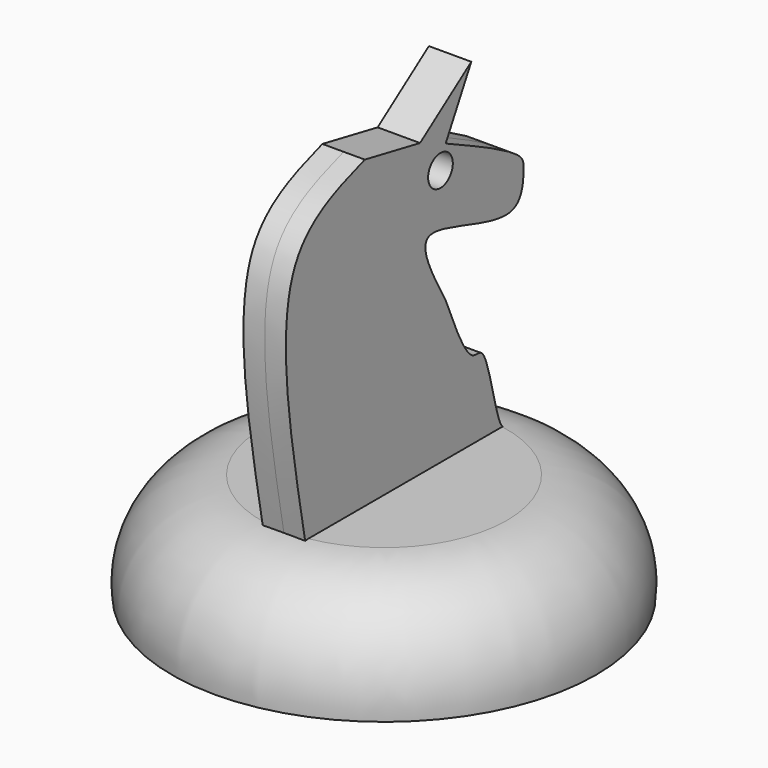
from build123d import *

# Parameters (mm, degrees)
F3_DEPTH = 2.5
F4_R     = 1.8196916791
F5_DEPTH = 12.5


with BuildPart() as f1:
    # F0 (on Front) → F1 (revolve)
    with BuildSketch(Plane.XZ):
        with BuildLine():
            Line((0, 12.6119172201), (0, 0))
            Line((0, 0), (25, 0))
            ThreePointArc((25, 0), (22.4952746146, 8.5923260716), (14.4987376407, 12.6119172201))
            Line((14.4987376407, 12.6119172201), (0, 12.6119172201))
        make_face()
    revolve(axis=Axis((0, 0, 6.4052655362), (0, 0, 1)))

    # F2 (on Right) → F3 (join, symmetric)
    with BuildSketch(Plane.YZ):
        with BuildLine():
            Line((2.1847423632, 46.9719432294), (-5.9583862312, 48.560846597))
            add(Edge.make_bspline(
                [(-5.9583862312, 48.560846597), (-10.0494004536, 47.1754783464), (-20.5400337851, 43.6229631129), (-16.9337974529, 24.3011579167), (-14.7338788956, 12.5142438337)],
                knots=[0, 0, 0, 0, 0.3899682787, 1, 1, 1, 1], degree=3))
            Line((-14.7338788956, 12.5142438337), (14.3563160673, 12.5142438337))
            Line((14.3563160673, 12.5142438337), (14.5549289882, 12.5142438337))
            add(Edge.make_bspline(
                [(5.9583862312, 29.1159115732), (7.3715472189, 25.6909688511), (9.371699116, 20.8433925717), (12.102832406, 22.5996532733), (13.496080088, 12.6119547338), (14.568943508, 12.5194712005), (14.5549289882, 12.5142438337)],
                knots=[0, 0, 0, 0, 0.3508050285, 0.4965204597, 0.8596904866, 0.945994659, 0.945994659, 0.945994659, 0.945994659], degree=3))
            add(Edge.make_bspline(
                [(5.9583862312, 45.3830435872), (10.7803564129, 43.137072807), (17.3665075481, 40.069384197), (17.4829644732, 38.1086396595), (17.114618221, 31.5098055056), (-0.5193064977, 40.5736312792), (3.9619188125, 32.6472559951), (5.9583862312, 29.1159115732)],
                knots=[0, 0, 0, 0, 0.2683818218, 0.3665728268, 0.5161710784, 0.7844454114, 1, 1, 1, 1], degree=3))
            Line((5.9583862312, 45.3830435872), (9.7320312634, 52.3344948888))
            Line((9.7320312634, 52.3344948888), (2.1847423632, 46.9719432294))
        make_face()
    extrude(amount=F3_DEPTH, both=True)

    # F4 (on face) → F5 (cut, symmetric)
    with BuildSketch(Plane(origin=(-2.5, 0, 0), x_dir=(0, -1, 0), z_dir=(-1, 0, 0))):
        with Locations((-5.1921997219, 42.9001860321)):
            Circle(F4_R)
    extrude(amount=F5_DEPTH, both=True, mode=Mode.SUBTRACT)


solid = f1.part
